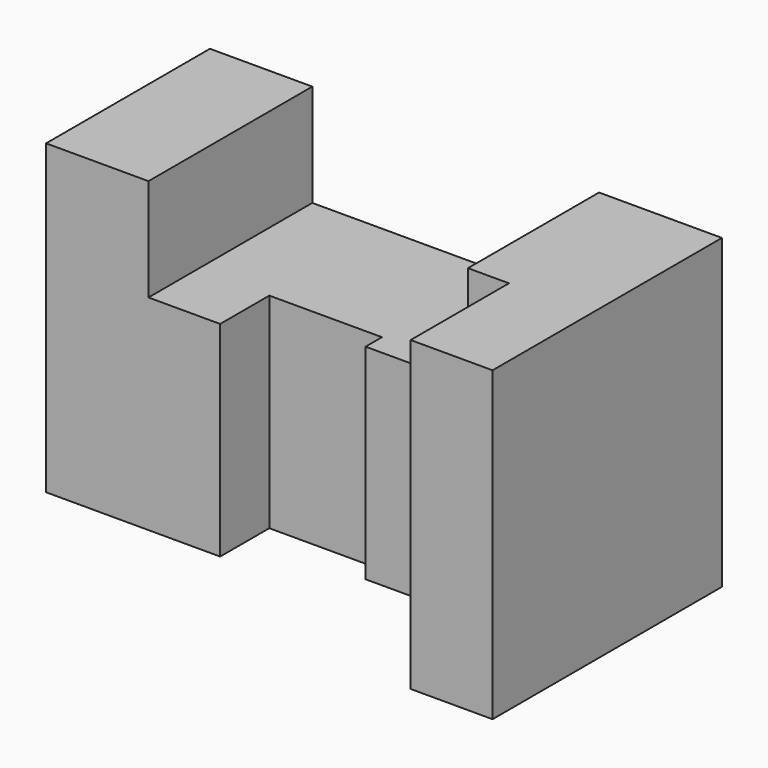
from build123d import *

# Parameters (mm, degrees)
F0_W     = 125
F0_H     = 75
F1_DEPTH = 70
F2_W     = 70
F2_H     = 25
F3_DEPTH = 70.001
F5_DEPTH = 75.001


with BuildPart() as f1:
    # F0 (on Front) → F1 (new body)
    with BuildSketch(Plane.XZ):
        with Locations((62.5, 37.5)):
            Rectangle(F0_W, F0_H)
    extrude(amount=-F1_DEPTH)

    # F2 (on face) → F3 (cut, through all)
    with BuildSketch(Plane.XZ):
        with Locations((60, 62.5)):
            Rectangle(F2_W, F2_H)
    extrude(amount=-F3_DEPTH, mode=Mode.SUBTRACT)

    # F4 (on face) → F5 (cut, through all)
    with BuildSketch(Plane.XY.offset(75)):
        Polygon((42.5, 20), (0, 20), (0, 0), (105, 0), (105, 30), (70, 30), (70, 35), (42.5, 35), align=None)
    extrude(amount=-F5_DEPTH, mode=Mode.SUBTRACT)


solid = f1.part
